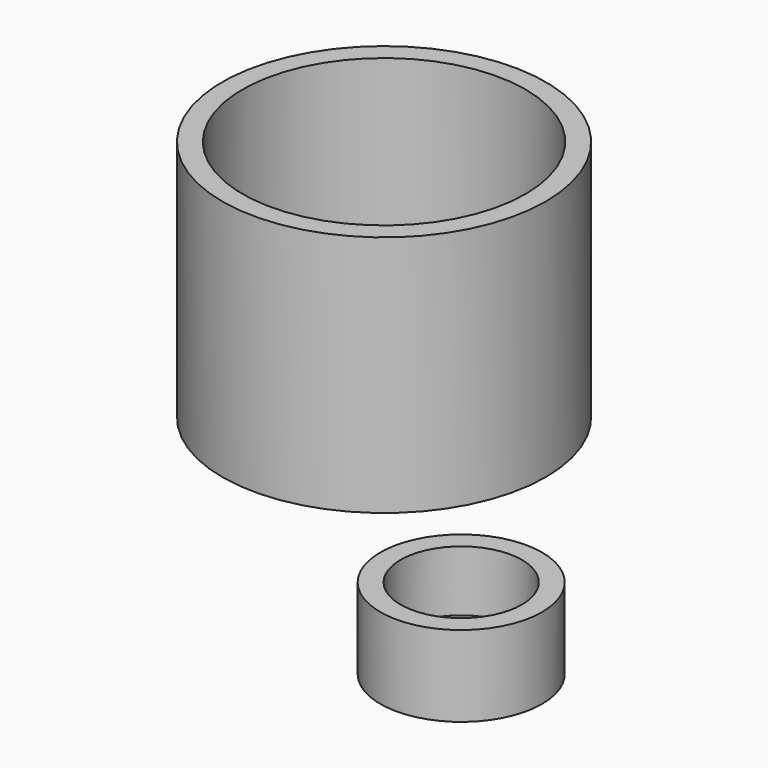
from build123d import *

# Parameters (mm, degrees)
F0_R     = 50.8
F0_R_2   = 44.45
F0_R_3   = 25.4
F0_R_4   = 19.05
F1_DEPTH = 6.35
F2_DEPTH = 76.2
F3_DEPTH = 25.4


with BuildPart() as f1:
    # F0 (on Top) → F1 (new body)
    with BuildSketch(Plane.XY):
        with Locations((-46.125822, 44.449462)):
            Circle(F0_R)
        with Locations((-46.125822, 44.449462)):
            Circle(F0_R_2, mode=Mode.SUBTRACT)
        with Locations((53.821475, -50.197604)):
            Circle(F0_R_3)
        with Locations((53.821475, -50.197604)):
            Circle(F0_R_4, mode=Mode.SUBTRACT)
        with Locations((-46.125822, 44.449462)):
            Circle(F0_R_2)
        with Locations((53.821475, -50.197604)):
            Circle(F0_R_4)
    extrude(amount=F1_DEPTH)


with BuildPart() as f2:
    # F0 (on Top) → F2 (new body)
    with BuildSketch(Plane.XY):
        with Locations((-46.125822, 44.449462)):
            Circle(F0_R)
        with Locations((-46.125822, 44.449462)):
            Circle(F0_R_2, mode=Mode.SUBTRACT)
    extrude(amount=F2_DEPTH)


with BuildPart() as f3:
    # F0 (on Top) → F3 (new body)
    with BuildSketch(Plane.XY):
        with Locations((53.821475, -50.197604)):
            Circle(F0_R_3)
        with Locations((53.821475, -50.197604)):
            Circle(F0_R_4, mode=Mode.SUBTRACT)
    extrude(amount=F3_DEPTH)


solid = Compound([f1.part, f2.part, f3.part])
